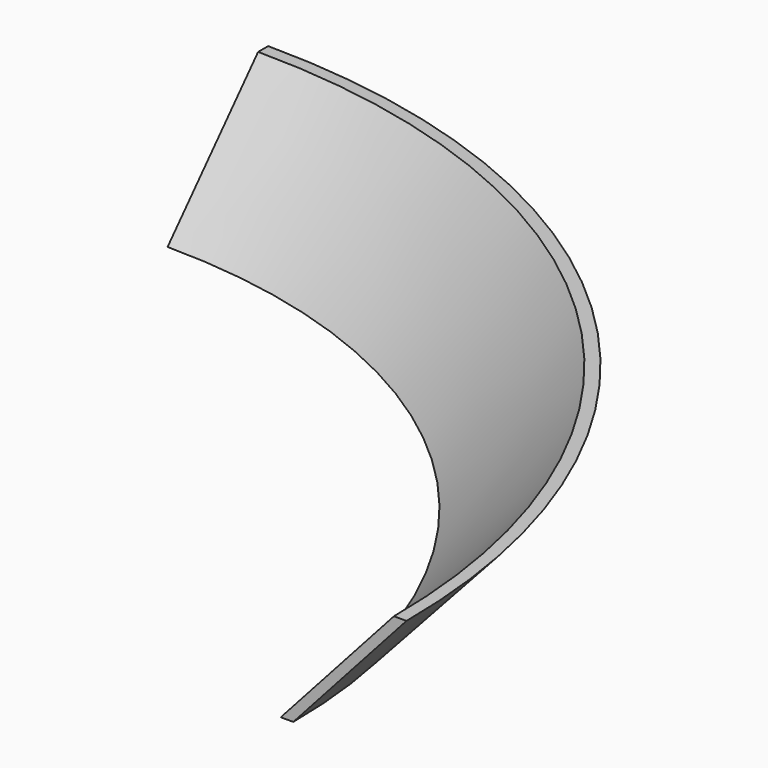
from build123d import *

# Parameters (mm, degrees)
F1_ANGLE = 90


with BuildPart() as f1:
    # F0 (on Front) → F1 (revolve)
    with BuildSketch(Plane.XZ):
        Polygon((114.3, 0), (116.84, 0), (139.7, 25.4), (137.16, 25.4), align=None)
    revolve(axis=Axis((0, 0, 12.7), (0, 0, 1)), revolution_arc=F1_ANGLE)


solid = f1.part
